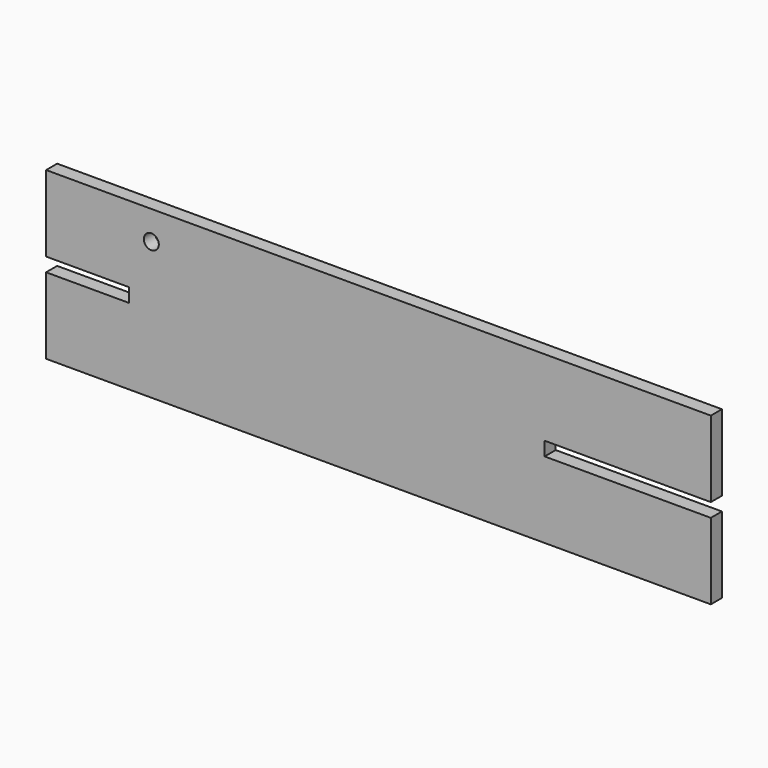
from build123d import *

# Parameters (mm, degrees)
F0_R     = 1.7145
F1_DEPTH = 3.175


with BuildPart() as f1:
    # F0 (on Front) → F1 (new body)
    with BuildSketch(Plane.XZ):
        Polygon((73.120295, 17.4625), (-79.279705, 17.4625), (-79.279705, 0), (-60.229705, 0), (-60.229705, -1.5875), (35.020295, -1.5875), (35.020295, 0), (47.720295, 0), (73.120295, 0), align=None)
        with Locations((-55.149705, 10.8331)):
            Circle(F0_R, mode=Mode.SUBTRACT)
        Polygon((-60.229705, -3.175), (-79.279705, -3.175), (-79.279705, -20.6375), (73.120295, -20.6375), (73.120295, -3.175), (47.720295, -3.175), (35.020295, -3.175), (35.020295, -1.5875), (-60.229705, -1.5875), align=None)
    extrude(amount=F1_DEPTH)


solid = f1.part
